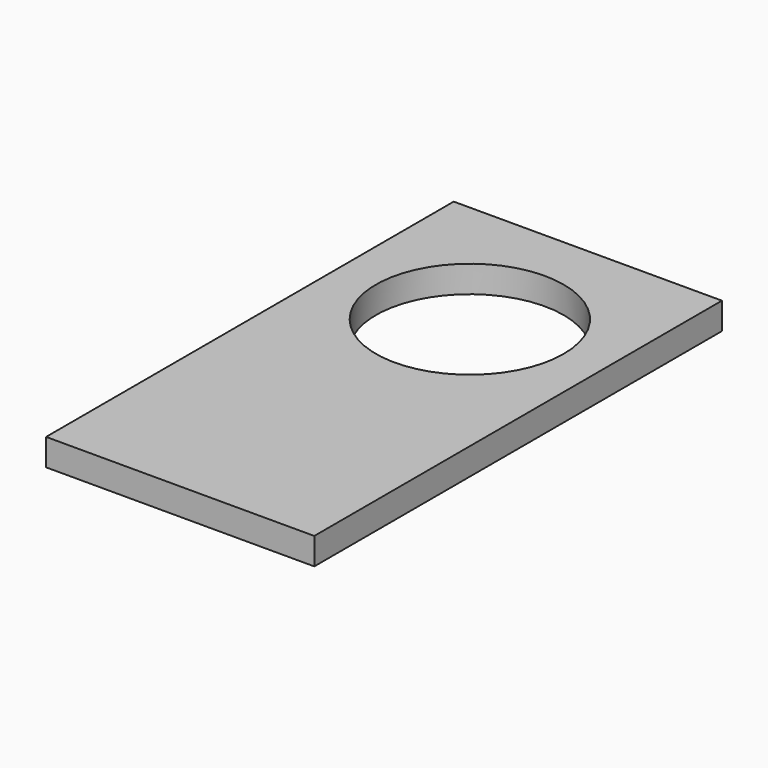
from build123d import *

# Parameters (mm, degrees)
SKETCH_W  = 100
SKETCH_H  = 190
SKETCH_R  = 35
PAD_DEPTH = 10


with BuildPart() as part:
    # Sketch → Pad (new body)
    with BuildSketch(Plane.XY):
        with Locations((50, 95)):
            Rectangle(SKETCH_W, SKETCH_H)
        with Locations((50, 135)):
            Circle(SKETCH_R, mode=Mode.SUBTRACT)
    extrude(amount=PAD_DEPTH)


solid = part.part
